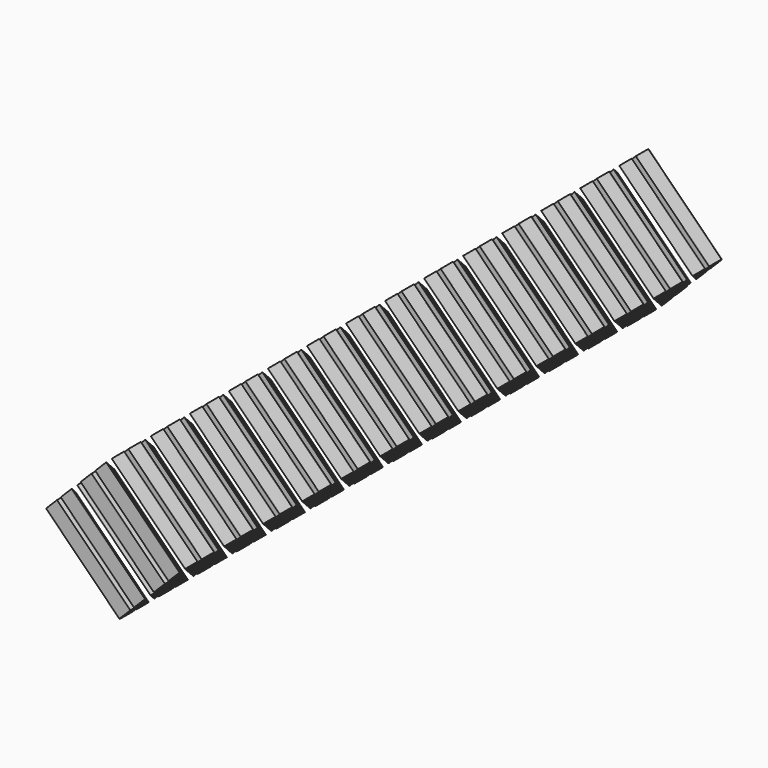
from build123d import *

# Parameters (mm, degrees)
PAD004_DEPTH         = 20
ARRAY_COUNT          = 4
ARRAY001_X_COUNT     = 2
ARRAY001_X_PITCH     = 9.414214
ARRAY001_Y_COUNT     = 14
ARRAY001_Y_PITCH     = 9.414214
ARRAY001_PITCH_ANGLE = -45


with BuildPart() as polarpattern:
    # Sketch012 → Pad004 (new body)
    with BuildSketch(Plane.XY):
        Polygon((1.207107, 0.5), (4.207107, 3.5), (4.207107, 0.5), align=None)
    extrude(amount=PAD004_DEPTH)

    # Array: PolarPattern ×4 about axis
    array_axis = Axis((0, 0, 0), (0, 0, 1))


with BuildPart() as polarpattern_1:
    add(polarpattern.part)
    for i in range(1, ARRAY_COUNT):
        add(polarpattern.part.rotate(array_axis, i * 360 / ARRAY_COUNT))


with BuildPart() as obj1:
    # Part__Mirroring001: instance of PolarPattern
    add(polarpattern_1.part.mirror(Plane(origin=(0, 0, 0), x_dir=(0, -1, 0), z_dir=(1, 0, 0))))

    # Compound: union PolarPattern
    add(polarpattern_1.part)

    # Array001 X: obj1_2


with BuildPart() as obj1_1:
    add(obj1.part)
    with Locations(*[(i * ARRAY001_X_PITCH, 0, 0) for i in range(1, ARRAY001_X_COUNT)]):
        add(obj1.part)

    # Array001 Y: obj1 ×14


with BuildPart() as obj1_2:
    add(obj1_1.part)
    with Locations(*[(0, i * ARRAY001_Y_PITCH, 0) for i in range(1, ARRAY001_Y_COUNT)]):
        add(obj1_1.part)


with BuildPart() as obj1_3:
    # Array001 pitch: moved
    add(obj1_2.part.rotate(Axis((0, 0, 0), (0, 1, 0)), ARRAY001_PITCH_ANGLE))


with BuildPart() as obj1_4:
    # Array001 placement: moved
    add(obj1_3.part.moved(Location((2, 22, -4))))


solid = obj1_4.part
